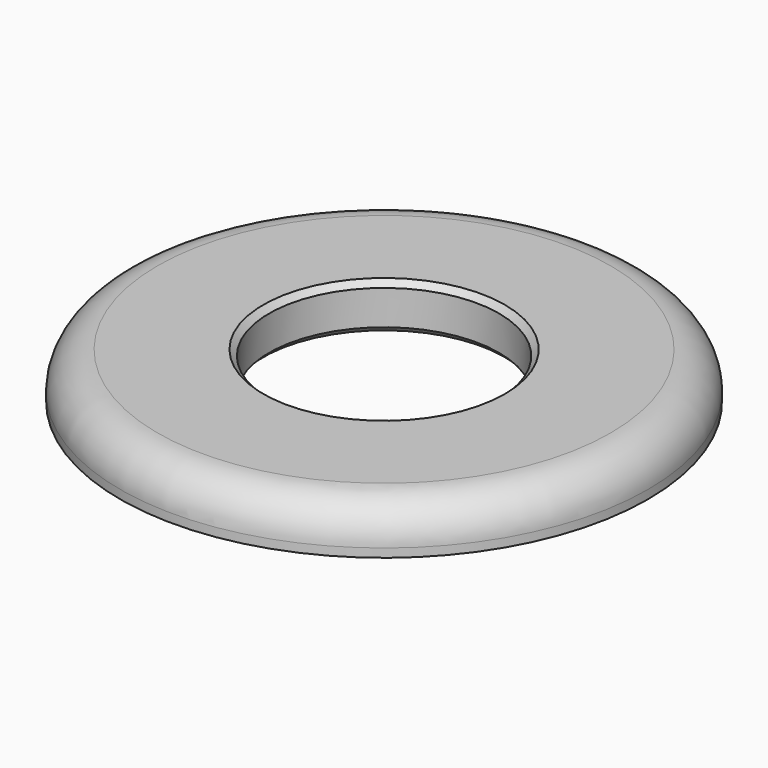
from build123d import *

# Parameters (mm, degrees)
F0_R     = 11.627364
F0_R_2   = 5.06648
F1_DEPTH = 2.032
F2_R     = 1.651
F3_SIZE  = 0.254
F4_SIZE  = 0.254


with BuildPart() as f1:
    # F0 (on Top) → F1 (new body)
    with BuildSketch(Plane.XY):
        Circle(F0_R)
        Circle(F0_R_2, mode=Mode.SUBTRACT)
    extrude(amount=F1_DEPTH)

    # F2
    f2_edges = [f1.edges().sort_by_distance(p)[0] for p in [
        (-11.627364, 0, 2.032),
    ]]
    fillet(f2_edges, radius=F2_R)

    # F3
    f3_edges = [f1.edges().sort_by_distance(p)[0] for p in [
        (-5.06648, 0, 2.032),
    ]]
    chamfer(f3_edges, length=F3_SIZE)

    # F4
    f4_edges = [f1.edges().sort_by_distance(p)[0] for p in [
        (-5.06648, 0, 0),
    ]]
    chamfer(f4_edges, length=F4_SIZE)


solid = f1.part
